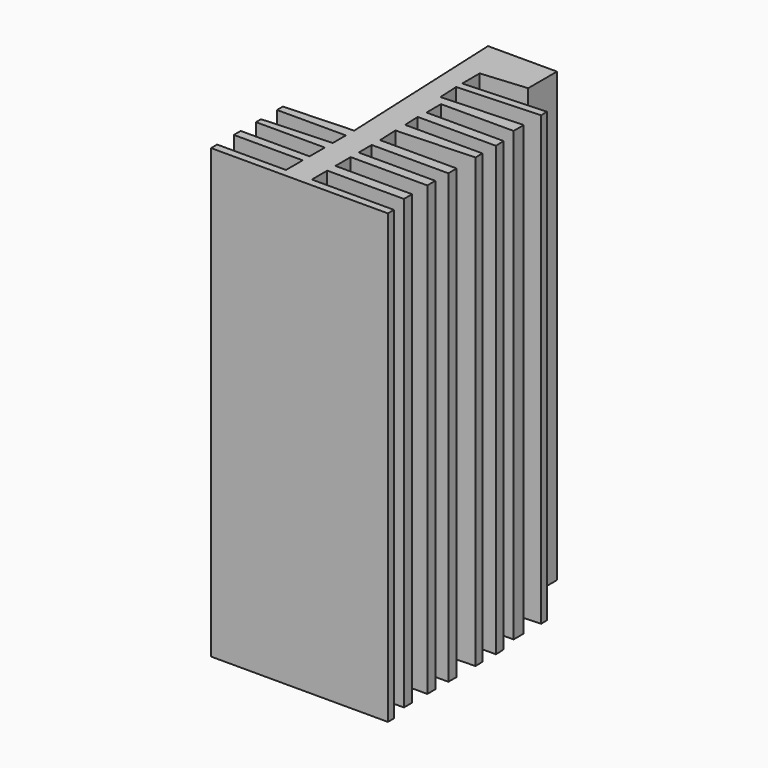
from build123d import *

# Parameters (mm, degrees)
F1_DEPTH = 78


with BuildPart() as f1:
    # F0 (on Top) → F1 (new body)
    with BuildSketch(Plane.XY):
        Polygon((1.925139, 26.272861), (-10.093649, 26.272861), (-8.750272, -4.541554), (-20.750008, -5.064691), (-20.750008, -6.359064), (-8.750272, -6.359064), (-8.750272, -9.203862), (-20.750008, -9.83604), (-20.750008, -10.942351), (-8.750272, -10.942351), (-8.750272, -14.261283), (-20.750008, -14.261283), (-20.750008, -15.762705), (-8.750272, -15.762705), (-8.750272, -19.397726), (-20.750008, -19.397726), (-20.750008, -20.727139), (10.061802, -20.727139), (10.061802, -19.397726), (-4.248118, -19.397726), (-4.248118, -16.04324), (9.106632, -16.04324), (9.106632, -14.261283), (-4.248118, -14.261283), (-4.248118, -10.942351), (9.106632, -10.942351), (9.106632, -9.203862), (-4.248118, -9.203862), (-4.248118, -6.359064), (9.106632, -6.359064), (9.106632, -4.541554), (-4.248118, -4.541554), (-4.402158, -1.00818), (9.106632, -0.419254), (9.040026, 1.108561), (-4.402158, 1.108561), (-4.528467, 4.005838), (9.106632, 4.005838), (9.030154, 5.760104), (-4.402158, 5.760104), (-4.402158, 8.927771), (8.237388, 8.927771), (8.237388, 11.140392), (-5.768243, 10.517721), (-5.949861, 14.160484), (8.302369, 14.871059), (8.237388, 16.174402), (-5.949861, 15.467067), (-5.949861, 19.286677), (1.925139, 19.994011), align=None)
    extrude(amount=F1_DEPTH)


solid = f1.part
